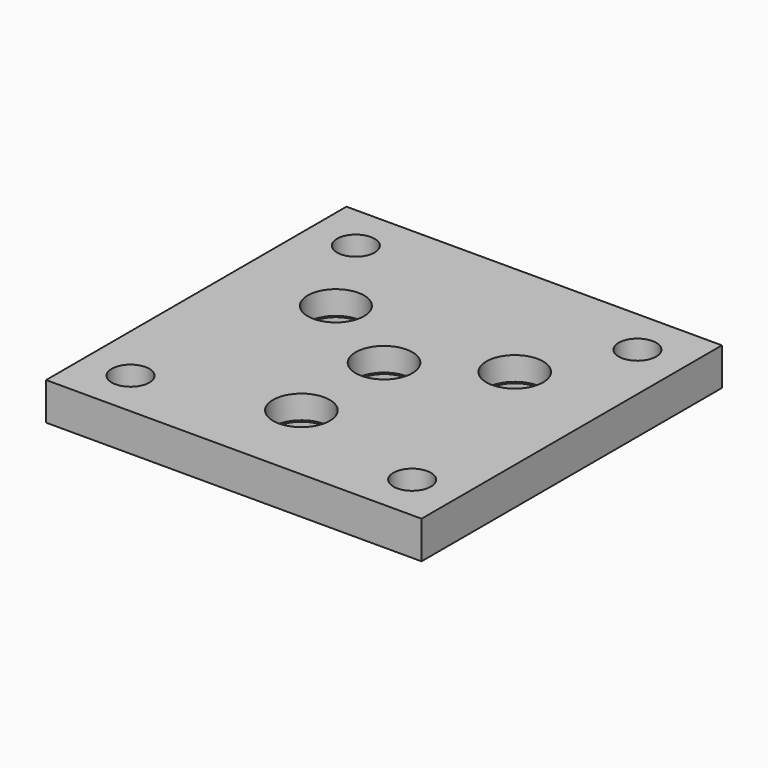
from build123d import *

# Parameters (mm, degrees)
F0_W     = 80
F0_H     = 80
F1_DEPTH = 8
F2_R     = 5.5
F2_R_2   = 4
F3_DEPTH = 25
F4_R     = 6
F4_R_2   = 6.05
F5_DEPTH = 5
F6_R     = 7.575
F7_DEPTH = 1


with BuildPart() as f1:
    # F0 (on Top) → F1 (new body)
    with BuildSketch(Plane.XY):
        Rectangle(F0_W, F0_H)
    extrude(amount=F1_DEPTH)

    # F2 (on face) → F3 (cut)
    with BuildSketch(Plane.XY.offset(8)):
        with Locations((-19.052559, 11)):
            Circle(F2_R)
        with Locations((-30, 30)):
            Circle(F2_R_2)
        with Locations((19.052559, 11)):
            Circle(F2_R)
        with Locations((30, 30)):
            Circle(F2_R_2)
        with Locations((30, -30)):
            Circle(F2_R_2)
        with Locations((0, -22)):
            Circle(F2_R)
        with Locations((-30, -30)):
            Circle(F2_R_2)
        Circle(F2_R)
    extrude(amount=-F3_DEPTH, mode=Mode.SUBTRACT)

    # F4 (on face) → F5 (cut)
    with BuildSketch(Plane.XY.offset(8)):
        with Locations((-19.052559, 11)):
            Circle(F4_R)
        with Locations((19.052559, 11)):
            Circle(F4_R_2)
        Circle(F4_R_2)
        with Locations((0, -22)):
            Circle(F4_R_2)
    extrude(amount=-F5_DEPTH, mode=Mode.SUBTRACT)

    # F6 (on face) → F7 (cut)
    with BuildSketch(Plane(origin=(0, 0, 0), x_dir=(1, 0, 0), z_dir=(0, 0, -1))):
        with Locations((-30, 30)):
            Circle(F6_R)
        with Locations((30, 30)):
            Circle(F6_R)
        with Locations((30, -30)):
            Circle(F6_R)
        with Locations((-30, -30)):
            Circle(F6_R)
    extrude(amount=-F7_DEPTH, mode=Mode.SUBTRACT)


solid = f1.part
